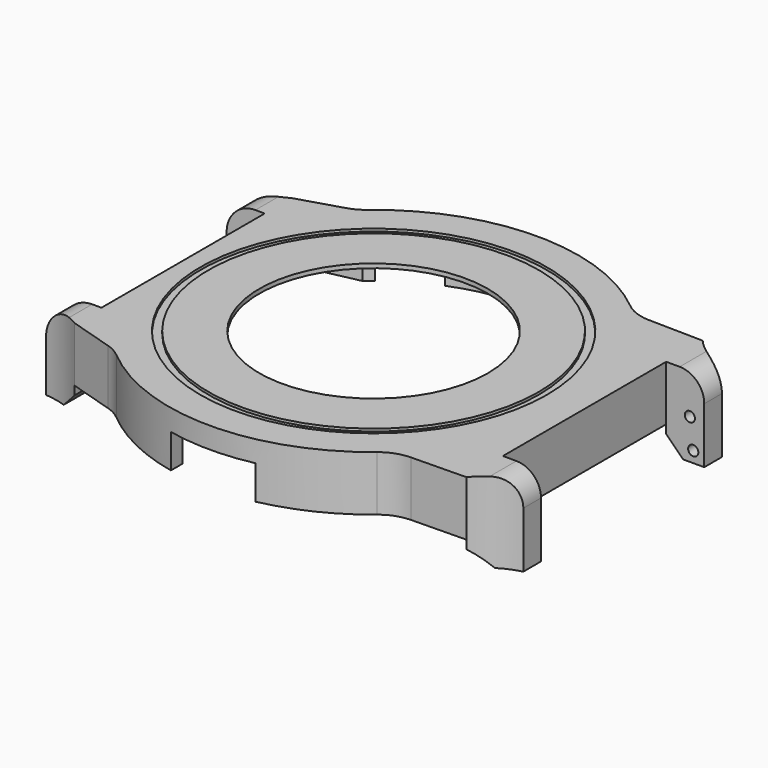
from build123d import *

# Parameters (mm, degrees)
PAD_DEPTH       = 6.5
POCKET_DEPTH    = 6
SKETCH002_R     = 13.5
POCKET001_DEPTH = 1
SKETCH003_W     = 5.4
SKETCH003_H     = 6.5
PAD001_DEPTH    = 4.5
POCKET002_DEPTH = 10
SKETCH008_R     = 0.6
POCKET003_DEPTH = 2
SKETCH009_R     = 0.6
POCKET004_DEPTH = 2
FILLET_R        = 2.9
FILLET001_R     = 2.9
FILLET002_R     = 5
FILLET003_R     = 5
FILLET004_R     = 5
FILLET005_R     = 5
SKETCH010_W     = 3.95
SKETCH010_H     = 6.5
PAD002_DEPTH    = 4.5
POCKET005_DEPTH = 10
SKETCH012_R     = 0.6
POCKET006_DEPTH = 2
SKETCH013_R     = 0.6
POCKET007_DEPTH = 2
FILLET006_R     = 3.4
FILLET007_R     = 3.4
SKETCH014_R     = 20.45
SKETCH014_R_2   = 19.5
POCKET008_DEPTH = 0.3
SKETCH015_R     = 2.2
SKETCH015_R_2   = 0.975
PAD003_DEPTH    = 2
POCKET009_DEPTH = 4
POCKET010_DEPTH = 4
PAD004_DEPTH    = 3
CHAMFER_SIZE    = 2
CHAMFER001_SIZE = 2
CHAMFER002_SIZE = 2
CHAMFER003_SIZE = 2
SKETCH019_R     = 0.6
POCKET011_DEPTH = 2
SKETCH020_R     = 0.6
POCKET012_DEPTH = 2


with BuildPart() as part:
    # Sketch → Pad (new body)
    with BuildSketch(Plane.XY):
        with BuildLine():
            Line((-22.5019915649, 16), (-22.5019915649, -16))
            Line((-22.5019915649, -16), (-16.2858834577, -17.9000000001))
            ThreePointArc((-16.2858834577, -17.9000000001), (0.2206895737, -24.1989937004), (16.6096357576, -17.5999999999))
            Line((16.6096357576, -17.5999999999), (24.9082802252, -17.45))
            Line((24.9082802252, 17.45), (24.9082802252, -17.45))
            Line((16.6096357576, 17.6), (24.9082802252, 17.45))
            ThreePointArc((16.6096357576, 17.6), (0.2206895736, 24.1989937004), (-16.2858834578, 17.9))
            Line((-22.5019915649, 16), (-16.2858834578, 17.9))
        make_face()
    extrude(amount=PAD_DEPTH)

    # Sketch001 → Pocket (cut)
    with BuildSketch(Plane.XY):
        with BuildLine():
            Line((-14.8539557021, 16.9), (-21.2122180433, 15.55))
            Line((-21.2122180433, 15.55), (-21.2122180433, -15.55))
            Line((-21.2122180433, -15.55), (-14.8539557021, -16.9))
            ThreePointArc((-14.8539557021, -16.9), (-0.0760301383, -22.4998715423), (14.739402973, -17))
            Line((14.739402973, -17), (23.6191552218, -16.4))
            Line((23.6191552218, 16.4), (23.6191552218, -16.4))
            Line((14.739402973, 17), (23.6191552218, 16.4))
            ThreePointArc((14.739402973, 17), (-0.0760301383, 22.4998715423), (-14.8539557021, 16.9))
        make_face()
    extrude(amount=POCKET_DEPTH, mode=Mode.SUBTRACT)

    # Sketch002 (on Face19 of Pocket) → Pocket001 (cut)
    with BuildSketch(Plane(origin=(0, 0, 6), x_dir=(1, 0, 0), z_dir=(0, 0, -1))):
        Circle(SKETCH002_R)
    extrude(amount=-POCKET001_DEPTH, mode=Mode.SUBTRACT)

    # Sketch003 (on Face6 of Pocket001) → Pad001 (join)
    with BuildSketch(Plane.YZ.offset(24.9082802252)):
        with Locations((-14.75, 3.25)):
            Rectangle(SKETCH003_W, SKETCH003_H)
        with Locations((14.75, 3.25)):
            Rectangle(SKETCH003_W, SKETCH003_H)
    extrude(amount=PAD001_DEPTH)

    # Sketch006 → Pocket002 (cut)
    with BuildSketch(Plane.XY.offset(6.5)):
        with BuildLine():
            ThreePointArc((24.9082802252, 17.45), (26.9423471239, 15.7065020586), (29.4082802252, 14.6594169811))
            Line((29.4082802252, 17.45), (29.4082802252, 14.6594169811))
            Line((29.4082802252, 17.45), (24.9082802252, 17.45))
        make_face()
        with BuildLine():
            ThreePointArc((29.4082802252, -14.6594169811), (26.9423471239, -15.7065020586), (24.9082802252, -17.45))
            Line((29.4082802252, -17.45), (24.9082802252, -17.45))
            Line((29.4082802252, -14.6594169811), (29.4082802252, -17.45))
        make_face()
    extrude(amount=-POCKET002_DEPTH, mode=Mode.SUBTRACT)

    # Sketch008 (on Face27 of Pocket002) → Pocket003 (cut)
    with BuildSketch(Plane(origin=(0, -12.05, 0), x_dir=(-1, 0, 0), z_dir=(0, 1, 0))):
        with Locations((-27.7082802252, 1.7)):
            Circle(SKETCH008_R)
    extrude(amount=-POCKET003_DEPTH, mode=Mode.SUBTRACT)

    # Sketch009 (on Face26 of Pocket003) → Pocket004 (cut)
    with BuildSketch(Plane.XZ.offset(-12.05)):
        with Locations((27.7082802252, 1.7)):
            Circle(SKETCH009_R)
    extrude(amount=-POCKET004_DEPTH, mode=Mode.SUBTRACT)

    # Fillet
    fillet_edges = [part.edges().sort_by_distance(p)[0] for p in [
        (29.40828, -13.354708, 6.5),
    ]]
    fillet(fillet_edges, radius=FILLET_R)

    # Fillet001
    fillet001_edges = [part.edges().sort_by_distance(p)[0] for p in [
        (29.40828, 13.354708, 6.5),
    ]]
    fillet(fillet001_edges, radius=FILLET001_R)

    # Fillet002
    fillet002_edges = [part.edges().sort_by_distance(p)[0] for p in [
        (16.609636, -17.6, 3.25),
    ]]
    fillet(fillet002_edges, radius=FILLET002_R)

    # Fillet003
    fillet003_edges = [part.edges().sort_by_distance(p)[0] for p in [
        (16.609636, 17.6, 3.25),
    ]]
    fillet(fillet003_edges, radius=FILLET003_R)

    # Fillet004
    fillet004_edges = [part.edges().sort_by_distance(p)[0] for p in [
        (-16.285883, -17.9, 3.25),
    ]]
    fillet(fillet004_edges, radius=FILLET004_R)

    # Fillet005
    fillet005_edges = [part.edges().sort_by_distance(p)[0] for p in [
        (-16.285883, 17.9, 3.25),
    ]]
    fillet(fillet005_edges, radius=FILLET005_R)

    # Sketch010 (on Face4 of Fillet005) → Pad002 (join)
    with BuildSketch(Plane(origin=(-22.5019915649, 0, 0), x_dir=(0, -1, 0), z_dir=(-1, 0, 0))):
        with Locations((-14.025, 3.25)):
            Rectangle(SKETCH010_W, SKETCH010_H)
        with Locations((14.025, 3.25)):
            Rectangle(SKETCH010_W, SKETCH010_H)
    extrude(amount=PAD002_DEPTH)

    # Sketch011 (on Face6 of Pad002) → Pocket005 (cut)
    with BuildSketch(Plane.XY.offset(6.5)):
        with BuildLine():
            ThreePointArc((-27.0019915649, 14.6), (-24.6759937451, 15.0557212933), (-22.5019915649, 16))
            Line((-22.5019915649, 16), (-27.0019915649, 16))
            Line((-27.0019915649, 16), (-27.0019915649, 14.6))
        make_face()
        with BuildLine():
            ThreePointArc((-22.5019915649, -16), (-24.6759937451, -15.0557212933), (-27.0019915649, -14.6))
            Line((-27.0019915649, -14.6), (-27.0019915649, -16))
            Line((-27.0019915649, -16), (-22.5019915649, -16))
        make_face()
    extrude(amount=-POCKET005_DEPTH, mode=Mode.SUBTRACT)

    # Sketch012 (on Face23 of Pocket005) → Pocket006 (cut)
    with BuildSketch(Plane(origin=(0, -12.05, 0), x_dir=(-1, 0, 0), z_dir=(0, 1, 0))):
        with Locations((25.3019915649, 1.7)):
            Circle(SKETCH012_R)
    extrude(amount=-POCKET006_DEPTH, mode=Mode.SUBTRACT)

    # Sketch013 (on Face21 of Pocket006) → Pocket007 (cut)
    with BuildSketch(Plane.XZ.offset(-12.05)):
        with Locations((-25.3019915649, 1.7)):
            Circle(SKETCH013_R)
    extrude(amount=-POCKET007_DEPTH, mode=Mode.SUBTRACT)

    # Fillet006
    fillet006_edges = [part.edges().sort_by_distance(p)[0] for p in [
        (-27.001992, 13.325, 6.5),
    ]]
    fillet(fillet006_edges, radius=FILLET006_R)

    # Fillet007
    fillet007_edges = [part.edges().sort_by_distance(p)[0] for p in [
        (-27.001992, -13.325, 6.5),
    ]]
    fillet(fillet007_edges, radius=FILLET007_R)

    # Sketch014 (on Face4 of Fillet007) → Pocket008 (cut)
    with BuildSketch(Plane.XY.offset(6.5)):
        Circle(SKETCH014_R)
        Circle(SKETCH014_R_2, mode=Mode.SUBTRACT)
    extrude(amount=-POCKET008_DEPTH, mode=Mode.SUBTRACT)

    # Sketch015 (on Face55 of Pocket008) → Pad003 (join)
    with BuildSketch(Plane(origin=(0, 0, 6), x_dir=(1, 0, 0), z_dir=(0, 0, -1))):
        with Locations((-18.42, 13.32)):
            Circle(SKETCH015_R)
        with Locations((-18.42, 13.32)):
            Circle(SKETCH015_R_2, mode=Mode.SUBTRACT)
        with Locations((7.27, 18.56)):
            Circle(SKETCH015_R)
        with Locations((7.27, 18.56)):
            Circle(SKETCH015_R_2, mode=Mode.SUBTRACT)
        with Locations((5.37, -19.79)):
            Circle(SKETCH015_R)
        with Locations((5.37, -19.79)):
            Circle(SKETCH015_R_2, mode=Mode.SUBTRACT)
        with Locations((-18.42, -13.32)):
            Circle(SKETCH015_R)
        with Locations((-18.42, -13.32)):
            Circle(SKETCH015_R_2, mode=Mode.SUBTRACT)
    extrude(amount=PAD003_DEPTH)

    # Sketch016 → Pocket009 (cut)
    with BuildSketch(Plane(origin=(0, 0, 0), x_dir=(-1, 0, 0), z_dir=(0, 0, 1))):
        with BuildLine():
            Line((-5, 23.6778377391), (-5, 21.9374109685))
            ThreePointArc((5, 21.9374109685), (0, 22.5), (-5, 21.9374109685))
            Line((5, 23.6778377391), (5, 21.9374109685))
            ThreePointArc((5, 23.6778377391), (0, 24.2), (-5, 23.6778377391))
        make_face()
    extrude(amount=POCKET009_DEPTH, mode=Mode.SUBTRACT)

    # Sketch017 → Pocket010 (cut)
    with BuildSketch(Plane(origin=(0, 0, 0), x_dir=(-1, 0, 0), z_dir=(0, 0, 1))):
        with BuildLine():
            Line((-3.499984119, -22.2261132717), (-3.5, -23.9455632634))
            ThreePointArc((-3.5, -23.9455632634), (0, -24.2000019575), (3.5, -23.9455632634))
            Line((3.5000158811, -22.2261082701), (3.5, -23.9455632634))
            ThreePointArc((-3.499984119, -22.2261132717), (1.60767e-05, -22.5), (3.5000158811, -22.2261082701))
        make_face()
        with BuildLine():
            ThreePointArc((-13.9498796389, -17.6536358312), (-11.25, -19.4855715851), (-8.3135572795, -20.9077680626))
            Line((-8.3135572795, -20.9077680626), (-8.9416927184, -22.487466094))
            ThreePointArc((-15.0038705449, -18.987466094), (-12.1, -20.9578147716), (-8.9416927184, -22.487466094))
            Line((-13.9498796389, -17.6536358312), (-15.0038705449, -18.987466094))
        make_face()
        with BuildLine():
            ThreePointArc((8.3135572795, -20.9077680626), (11.25, -19.4855715851), (13.9498796389, -17.6536358312))
            Line((13.9498796389, -17.6536358312), (15.0038705449, -18.987466094))
            ThreePointArc((8.9416927184, -22.487466094), (12.1, -20.9578147716), (15.0038705449, -18.987466094))
            Line((8.3135572795, -20.9077680626), (8.9416927184, -22.487466094))
        make_face()
    extrude(amount=POCKET010_DEPTH, mode=Mode.SUBTRACT)

    # Sketch018 (on Face57 of Pocket010) → Pad004 (join)
    with BuildSketch(Plane(origin=(0, 0, 0), x_dir=(1, 0, 0), z_dir=(0, 0, -1))):
        with BuildLine():
            Line((29.4082802252, 14.6594169811), (29.4082802252, 12.05))
            Line((29.4082802252, 12.05), (24.9082802252, 12.05))
            Line((24.9082802252, 12.05), (24.9082802252, 17.45))
            ThreePointArc((24.9082802252, 17.45), (26.9423471239, 15.7065020586), (29.4082802252, 14.6594169811))
        make_face()
        with BuildLine():
            Line((29.4082802252, -12.05), (24.9082802252, -12.05))
            Line((24.9082802252, -17.45), (24.9082802252, -12.05))
            ThreePointArc((29.4082802252, -14.6594169811), (26.9423471239, -15.7065020586), (24.9082802252, -17.45))
            Line((29.4082802252, -12.05), (29.4082802252, -14.6594169811))
        make_face()
        with BuildLine():
            Line((-27.0019915649, 14.6), (-27.0019915649, 12.05))
            Line((-27.0019915649, 12.05), (-22.5019915649, 12.05))
            Line((-22.5019915649, 16), (-22.5019915649, 12.05))
            ThreePointArc((-27.0019915649, 14.6), (-24.6759937451, 15.0557212933), (-22.5019915649, 16))
        make_face()
        with BuildLine():
            Line((-27.0019915649, -12.05), (-22.5019915649, -12.05))
            Line((-22.5019915649, -12.05), (-22.5019915649, -16))
            ThreePointArc((-22.5019915649, -16), (-24.6759937451, -15.0557212933), (-27.0019915649, -14.6))
            Line((-27.0019915649, -12.05), (-27.0019915649, -14.6))
        make_face()
    extrude(amount=PAD004_DEPTH)

    # Chamfer
    chamfer_edges = [part.edges().sort_by_distance(p)[0] for p in [
        (-22.501992, -14.025, -3),
    ]]
    chamfer(chamfer_edges, length=CHAMFER_SIZE)

    # Chamfer001
    chamfer001_edges = [part.edges().sort_by_distance(p)[0] for p in [
        (-22.501992, 14.025, -3),
    ]]
    chamfer(chamfer001_edges, length=CHAMFER001_SIZE)

    # Chamfer002
    chamfer002_edges = [part.edges().sort_by_distance(p)[0] for p in [
        (24.90828, -14.75, -3),
    ]]
    chamfer(chamfer002_edges, length=CHAMFER002_SIZE)

    # Chamfer003
    chamfer003_edges = [part.edges().sort_by_distance(p)[0] for p in [
        (24.90828, 14.75, -3),
    ]]
    chamfer(chamfer003_edges, length=CHAMFER003_SIZE)

    # Sketch019 (on Face5 of Chamfer003) → Pocket011 (cut)
    with BuildSketch(Plane.XZ.offset(-12.05)):
        with Locations((28.1082802252, -1.7)):
            Circle(SKETCH019_R)
        with Locations((-25.7019915649, -1.7)):
            Circle(SKETCH019_R)
    extrude(amount=-POCKET011_DEPTH, mode=Mode.SUBTRACT)

    # Sketch020 (on Face83 of Pocket011) → Pocket012 (cut)
    with BuildSketch(Plane(origin=(0, -12.05, 0), x_dir=(-1, 0, 0), z_dir=(0, 1, 0))):
        with Locations((25.7019915649, -1.7)):
            Circle(SKETCH020_R)
        with Locations((-28.1082802252, -1.7)):
            Circle(SKETCH020_R)
    extrude(amount=-POCKET012_DEPTH, mode=Mode.SUBTRACT)


solid = part.part
